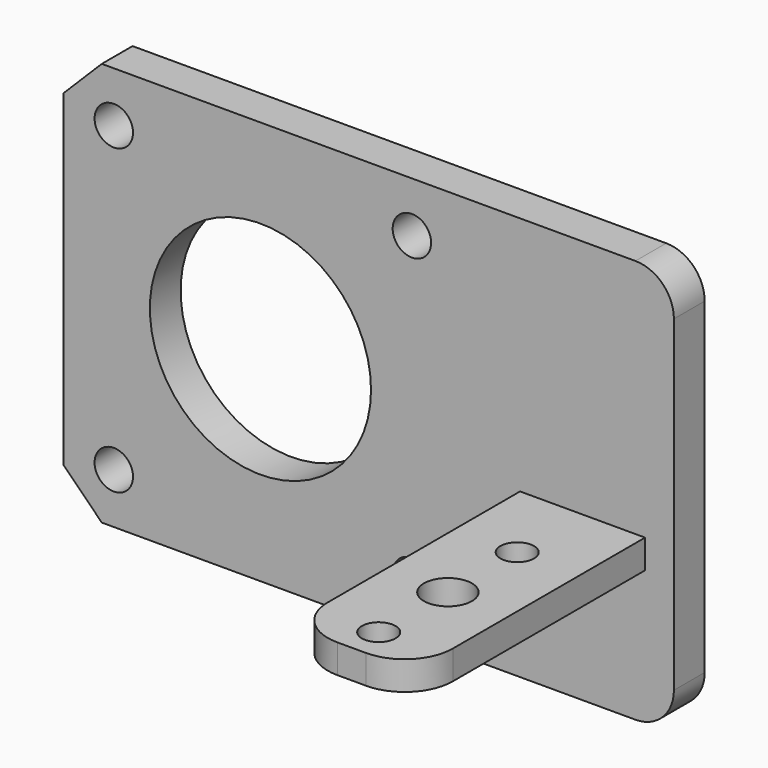
from build123d import *

# Parameters (mm, degrees)
F0_W     = 63.5
F0_H     = 42
F0_R     = 2
F0_R_2   = 11.5
F1_DEPTH = 4
F2_SIZE  = 4
F3_W     = 13
F3_H     = 3
F4_DEPTH = 30
F5_R     = 5
F6_R     = 4
F7_R     = 2.5
F7_R_2   = 1.75
F8_DEPTH = 3


with BuildPart() as f1:
    # F0 (on Front) → F1 (new body)
    with BuildSketch(Plane.XZ):
        with Locations((11.25, -0.25)):
            Rectangle(F0_W, F0_H)
        with Locations((-15.25, -16)):
            Circle(F0_R, mode=Mode.SUBTRACT)
        with Locations((15.75, -16)):
            Circle(F0_R, mode=Mode.SUBTRACT)
        Circle(F0_R_2, mode=Mode.SUBTRACT)
        with Locations((-15.25, 15.5)):
            Circle(F0_R, mode=Mode.SUBTRACT)
        with Locations((15.75, 15.5)):
            Circle(F0_R, mode=Mode.SUBTRACT)
    extrude(amount=F1_DEPTH)

    # F2
    f2_edges = [f1.edges().sort_by_distance(p)[0] for p in [
        (-20.5, -2, -21.25),
        (-20.5, -2, 20.75),
    ]]
    chamfer(f2_edges, length=F2_SIZE)

    # F3 (on face) → F4 (join)
    with BuildSketch(Plane.XZ.offset(4)):
        with Locations((33.5, -5.75)):
            Rectangle(F3_W, F3_H)
    extrude(amount=F4_DEPTH)

    # F5
    f5_edges = [f1.edges().sort_by_distance(p)[0] for p in [
        (40, -34, -5.75),
        (27, -34, -5.75),
    ]]
    fillet(f5_edges, radius=F5_R)

    # F6
    f6_edges = [f1.edges().sort_by_distance(p)[0] for p in [
        (43, -2, 20.75),
        (43, -2, -21.25),
    ]]
    fillet(f6_edges, radius=F6_R)

    # F7 (on face) → F8 (cut, through all)
    with BuildSketch(Plane.XY.offset(-4.25)):
        with Locations((33.5, -21.5)):
            Circle(F7_R)
        with Locations((33.5, -30.5)):
            Circle(F7_R_2)
        with Locations((33.5, -12.5)):
            Circle(F7_R_2)
    extrude(amount=-F8_DEPTH, mode=Mode.SUBTRACT)


solid = f1.part
